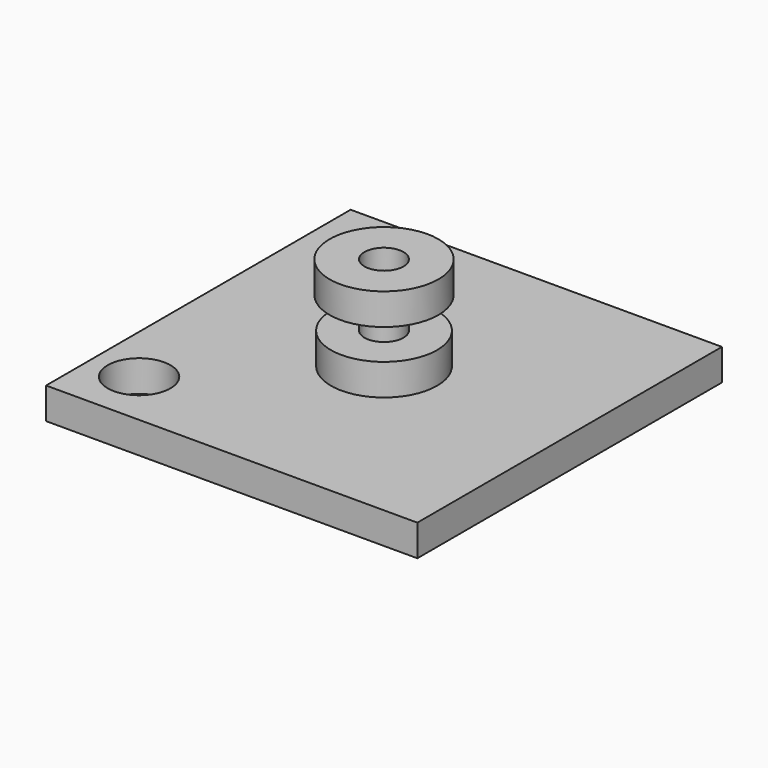
from build123d import *

# Parameters (mm, degrees)
F0_R     = 21.469749
F1_DEPTH = 25.4
F2_W     = 150.245562
F2_H     = 154.058844
F3_DEPTH = 12.7
F4_R     = 7.892908
F5_DEPTH = 12.7
F6_R     = 22.024997
F6_R_2   = 7.892908
F7_DEPTH = 12.7
F9_D     = 25.4
F9_DEPTH = 25.4


with BuildPart() as f1:
    # F0 (on Top) → F1 (new body)
    with BuildSketch(Plane.XY):
        Circle(F0_R)
    extrude(amount=F1_DEPTH)

    # F2 (on Top) → F3 (join)
    with BuildSketch(Plane.XY):
        Rectangle(F2_W, F2_H)
    extrude(amount=F3_DEPTH)

    # F4 (on face) → F5 (join)
    with BuildSketch(Plane.XY.offset(25.4)):
        Circle(F4_R)
    extrude(amount=F5_DEPTH)

    # F9
    with Locations(Plane.XY.offset(12.7)):
        with Locations((-55.914374, -53.994101)):
            Hole(F9_D / 2, depth=F9_DEPTH)


with BuildPart() as f7:
    # F6 (on face) → F7 (new body)
    with BuildSketch(Plane.XY.offset(38.1)):
        Circle(F6_R)
        Circle(F6_R_2, mode=Mode.SUBTRACT)
    extrude(amount=F7_DEPTH)


solid = Compound([f1.part, f7.part])
